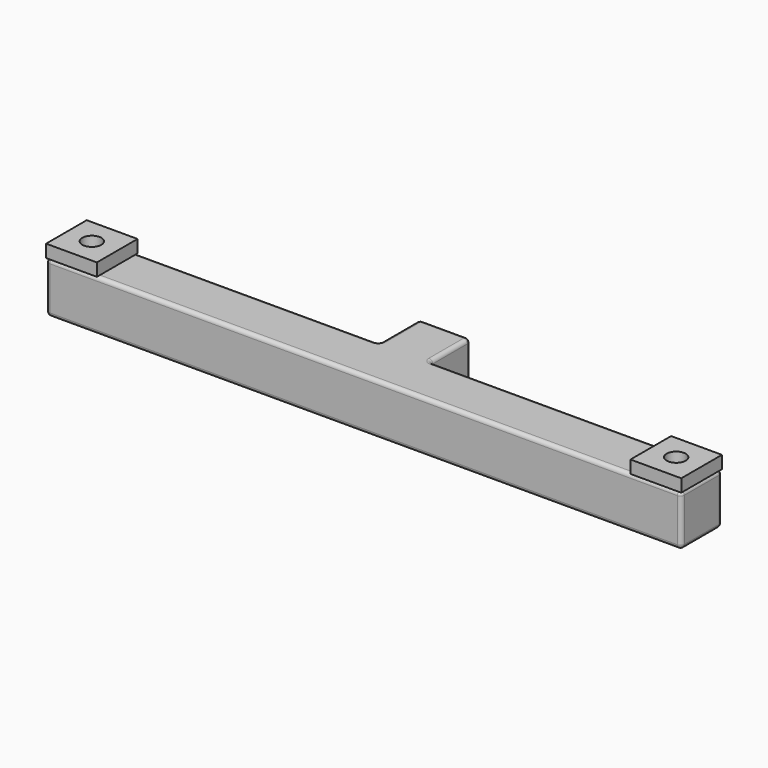
from build123d import *

# Parameters (mm, degrees)
F1_DEPTH = 40
F2_R     = 3
F3_W     = 40
F3_H     = 40
F3_R     = 7.5
F4_DEPTH = 10


with BuildPart() as f1:
    # F0 (on Top) → F1 (new body)
    with BuildSketch(Plane.XY):
        Polygon((-250, -20), (250, -20), (250, 20), (20, 20), (20, 60), (-20, 60), (-20, 20), (-250, 20), align=None)
    extrude(amount=F1_DEPTH)

    # F2
    f2_edges = [f1.edges().sort_by_distance(p)[0] for p in [
        (250, 20, 20),
        (-250, -20, 20),
        (250, -20, 20),
        (0, -20, 0),
        (0, -20, 40),
        (135, 20, 40),
        (250, 0, 0),
        (250, 0, 40),
        (-250, 0, 40),
        (20, 20, 20),
        (-250, 20, 20),
        (135, 20, 0),
        (-250, 0, 0),
        (20, 40, 0),
        (-20, 40, 40),
        (-135, 20, 40),
        (20, 40, 40),
        (20, 60, 20),
        (0, 60, 40),
        (-135, 20, 0),
        (-20, 20, 20),
        (-20, 60, 20),
        (-20, 40, 0),
        (0, 60, 0),
    ]]
    fillet(f2_edges, radius=F2_R)

    # F3 (on face) → F4 (join)
    with BuildSketch(Plane.XY.offset(40)):
        with Locations((-230, 0)):
            Rectangle(F3_W, F3_H)
        with Locations((-230, 0)):
            Circle(F3_R, mode=Mode.SUBTRACT)
        with Locations((230, 0)):
            Rectangle(F3_W, F3_H)
        with Locations((230, 0)):
            Circle(F3_R, mode=Mode.SUBTRACT)
    extrude(amount=F4_DEPTH)


solid = f1.part
